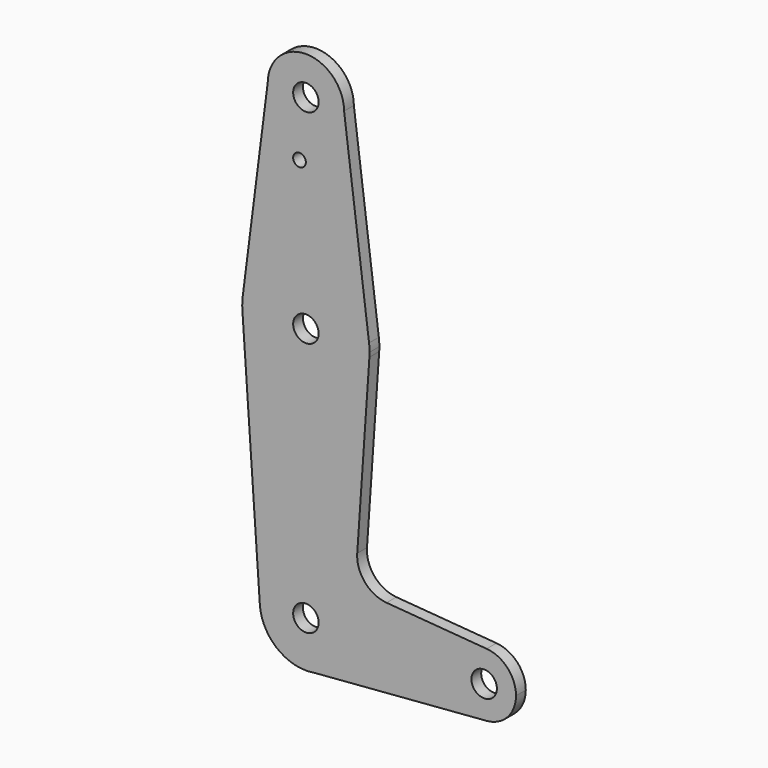
from build123d import *

# Parameters (mm, degrees)
F0_R     = 3.175
F0_R_2   = 1.5875
F1_DEPTH = 3.048


with BuildPart() as f1:
    # F0 (on Front) → F1 (new body)
    with BuildSketch(Plane.XZ):
        with BuildLine():
            ThreePointArc((1.822509, -11.360277), (8.756323, -7.463527), (11.505539, 0))
            ThreePointArc((11.505539, 0), (-0.396085, 11.498719), (-11.478268, -0.791701))
            ThreePointArc((-11.478268, -0.791701), (-7.850748, -8.410897), (0, -11.505539))
            Line((0, -11.505539), (1.822509, -11.360277))
        make_face()
        Circle(F0_R, mode=Mode.SUBTRACT)
        with BuildLine():
            ThreePointArc((-11.478268, -0.791701), (-0.396085, 11.498719), (11.505539, 0))
            ThreePointArc((11.505539, 0), (8.756323, -7.463527), (1.822509, -11.360277))
            Line((1.822509, -11.360277), (45.080655, -7.912407))
            ThreePointArc((45.080655, -7.912407), (36.5125, 0), (45.080655, 7.912407))
            Line((45.080655, 7.912407), (20.100004, 9.903478))
            ThreePointArc((20.100004, 9.903478), (14.708749, 12.639119), (12.800312, 18.375601))
            Line((12.800312, 18.375601), (15.837372, 62.407635))
            ThreePointArc((15.837372, 62.407635), (0, 47.625), (-15.837372, 62.407635))
            Line((-15.837372, 62.407635), (-11.478268, -0.791701))
        make_face()
        with BuildLine():
            ThreePointArc((0, -11.505539), (0.914145, -11.469166), (1.822509, -11.360277))
            Line((1.822509, -11.360277), (0, -11.505539))
        make_face()
        with BuildLine():
            ThreePointArc((-15.747884, 65.504936), (-15.868378, 63.958474), (-15.837372, 62.407635))
            ThreePointArc((-15.837372, 62.407635), (0, 47.625), (15.837372, 62.407635))
            ThreePointArc((15.837372, 62.407635), (15.86559, 62.953493), (15.875, 63.5))
            ThreePointArc((15.875, 63.5), (15.843164, 64.504885), (15.747782, 65.505739))
            ThreePointArc((15.747782, 65.505739), (-0.000405, 79.375), (-15.747884, 65.504936))
        make_face()
        with Locations((0, 63.5)):
            Circle(F0_R, mode=Mode.SUBTRACT)
        with BuildLine():
            ThreePointArc((45.080655, 7.912407), (36.5125, 0), (45.080655, -7.912407))
            ThreePointArc((45.080655, -7.912407), (50.281369, -5.385076), (52.3875, 0))
            ThreePointArc((52.3875, 0), (50.281369, 5.385076), (45.080655, 7.912407))
        make_face()
        with Locations((44.45, 0)):
            Circle(F0_R, mode=Mode.SUBTRACT)
        with BuildLine():
            Line((-9.524612, 114.385985), (-15.747884, 65.504936))
            ThreePointArc((-15.747884, 65.504936), (-0.000405, 79.375), (15.747782, 65.505739))
            Line((15.747782, 65.505739), (9.52478, 114.364791))
            ThreePointArc((9.52478, 114.364791), (9.524945, 114.332396), (9.525, 114.3))
            ThreePointArc((9.525, 114.3), (-0.042993, 104.775097), (-9.524612, 114.385985))
        make_face()
        with Locations((-1.5875, 100.0252)):
            Circle(F0_R_2, mode=Mode.SUBTRACT)
        with BuildLine():
            ThreePointArc((9.52478, 114.364791), (0.010597, 123.824994), (-9.524612, 114.385985))
            ThreePointArc((-9.524612, 114.385985), (-0.042993, 104.775097), (9.525, 114.3))
            ThreePointArc((9.525, 114.3), (9.524945, 114.332396), (9.52478, 114.364791))
        make_face()
        with Locations((0, 114.3)):
            Circle(F0_R, mode=Mode.SUBTRACT)
    extrude(amount=F1_DEPTH)


solid = f1.part
